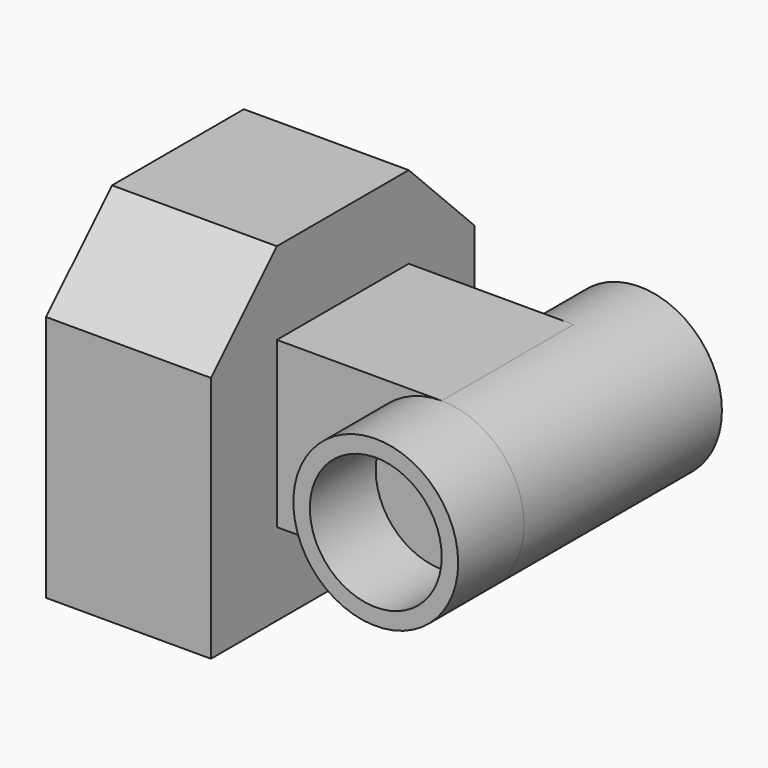
from build123d import *

# Parameters (mm, degrees)
F1_DEPTH      = 12.7
F0_W          = 6.35
F0_H          = 12.7
F2_DEPTH      = 25.4
F3_R          = 6.35
F3_R_2        = 5.08
F4_DEPTH      = 6.35
F4_DEPTH_BACK = 19.05


with BuildPart() as f1:
    # F0 (on Right) → F1 (new body)
    with BuildSketch(Plane.YZ):
        Polygon((-6.35, 19.05), (0, 19.05), (0, 25.4), (-6.35, 25.4), (-12.7, 19.05), (-12.7, 0), (0, 0), (0, 6.35), (-6.35, 6.35), align=None)
        Polygon((0, 25.4), (0, 19.05), (6.35, 19.05), (6.35, 6.35), (0, 6.35), (0, 0), (12.7, 0), (12.7, 19.05), (6.35, 25.4), align=None)
    extrude(amount=F1_DEPTH)

    # F0 (on Right) → F2 (join)
    with BuildSketch(Plane.YZ):
        with Locations((3.175, 12.7)):
            Rectangle(F0_W, F0_H)
        with Locations((-3.175, 12.7)):
            Rectangle(F0_W, F0_H)
    extrude(amount=F2_DEPTH)

    # F3 (on face) → F4 (join, two sides)
    with BuildSketch(Plane.XZ.offset(6.35)) as f4_sk:
        with Locations((25.4, 12.7)):
            Circle(F3_R)
        with Locations((25.4, 12.7)):
            Circle(F3_R_2, mode=Mode.SUBTRACT)
    extrude(amount=F4_DEPTH)
    extrude(f4_sk.sketch, amount=-F4_DEPTH_BACK)


solid = f1.part
